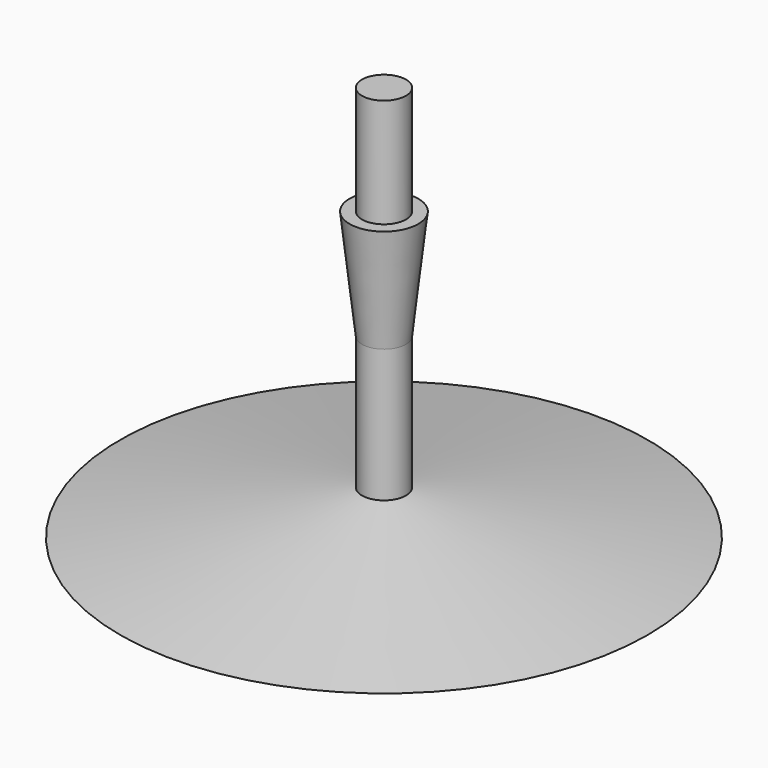
from build123d import *

# Parameters (mm, degrees)
F2_R      = 5
F3_DEPTH  = 80
F0_R      = 60
F3_FACE_R = 5
F8_R      = 5
F6_R      = 7.8


with BuildPart() as f3:
    # F2 (on offset) → F3 (new body)
    with BuildSketch(Plane.XY.offset(10)):
        Circle(F2_R)
    extrude(amount=F3_DEPTH)

    # F0 (on Top) → F4 section 0
    with BuildSketch(Plane.XY):
        Circle(F0_R)
    # F3_face (on face) → F4 section 1
    with BuildSketch(Plane(origin=(0, 0, 10), x_dir=(1, 0, 0), z_dir=(0, 0, -1))):
        Circle(F3_FACE_R)
    loft()

    # F8 (on offset) → F9 section 0
    with BuildSketch(Plane.XY.offset(40.25)):
        Circle(F8_R)
    # F6 (on offset) → F9 section 1
    with BuildSketch(Plane.XY.offset(65.25)):
        Circle(F6_R)
    loft()


solid = f3.part
